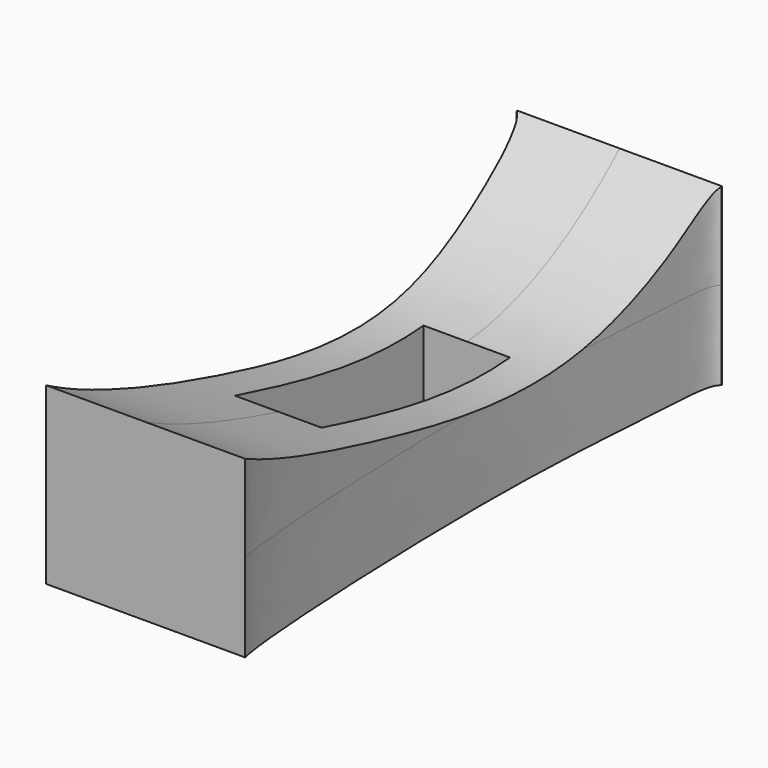
from build123d import *

# Parameters (mm, degrees)
F0_W          = 146.9521149993
F0_H          = 43.64182055
F1_DEPTH      = 25.4
F1_DEPTH_BACK = 25.4
F3_DEPTH      = 25.4
F3_DEPTH_BACK = 25.4
F5_DEPTH      = 25.4
F5_DEPTH_BACK = 25.4
F6_W          = 21.4510653168
F6_H          = 58.435657993
F7_DEPTH      = 19.05
F7_DEPTH_BACK = 19.05


with BuildPart() as f1:
    # F0 (on Right) → F1 (new body, two sides)
    with BuildSketch(Plane.YZ) as f1_sk:
        with Locations((-0.246565789, 0)):
            Rectangle(F0_W, F0_H)
    extrude(amount=F1_DEPTH)
    extrude(f1_sk.sketch, amount=-F1_DEPTH_BACK)

    # F2 (on Right) → F3 (cut, two sides)
    with BuildSketch(Plane.YZ) as f3_sk:
        with BuildLine():
            add(Edge.make_bspline(
                [(-74.215747416, 21.820910275), (-61.894191177, 15.2377273736), (-22.1100792082, 3.2237569893), (34.6803899351, -7.3993956262), (73.077793108, 19.258801403), (86.6447215634, 36.9009252345), (70.9789009852, 51.2328822131), (26.6385008912, 48.7207377435), (-29.9953971871, 46.1020839952), (-78.6939597066, 54.7034933177), (-90.3862941587, 33.3553993527), (-81.2800484867, 25.5952375691), (-74.215747416, 21.820910275)],
                knots=[0, 0, 0, 0, 0.1246967294, 0.2539314303, 0.3666593058, 0.4377567292, 0.5026378116, 0.6137286746, 0.7470863969, 0.8612680076, 0.9285077938, 1, 1, 1, 1], degree=3))
        make_face()
    extrude(amount=-F3_DEPTH, mode=Mode.SUBTRACT)
    extrude(f3_sk.sketch, amount=F3_DEPTH_BACK, mode=Mode.SUBTRACT)

    # F4 (on Top) → F5 (cut, two sides)
    with BuildSketch(Plane.XY) as f5_sk:
        with BuildLine():
            add(Edge.make_bspline(
                [(-25.3960862756, 73.1062069535), (-23.5095576316, 71.7872554287), (-22.9475698865, 55.4716414881), (-18.5812036149, 11.6112478816), (-22.9708888623, -73.9591128277), (-26.5923572766, -75.9397077273), (-60.6422517347, -78.6522113233), (-62.392178381, -20.1633902273), (-58.61908902, 44.1212419737), (-45.1288634077, 66.2260932479), (-40.7946206151, 73.8029194333), (-30.9643742623, 72.0170355029), (-26.6015743948, 73.949014402), (-25.3960862756, 73.1062069535)],
                knots=[0, 0, 0, 0, 0.0665799983, 0.1995830948, 0.3636325623, 0.3950919221, 0.4839306655, 0.6140422336, 0.7653117901, 0.854025013, 0.9022699385, 0.9574555111, 1, 1, 1, 1], degree=3))
        make_face()
        with BuildLine():
            add(Edge.make_bspline(
                [(25.3960862756, 73.1062069535), (23.5095576316, 71.7872554287), (22.9475698865, 55.4716414881), (18.5812036149, 11.6112478816), (22.9708888623, -73.9591128277), (26.5923572766, -75.9397077273), (60.6422517347, -78.6522113233), (62.392178381, -20.1633902273), (58.61908902, 44.1212419737), (45.1288634077, 66.2260932479), (40.7946206151, 73.8029194333), (30.9643742623, 72.0170355029), (26.6015743948, 73.949014402), (25.3960862756, 73.1062069535)],
                knots=[0, 0, 0, 0, 0.0665799983, 0.1995830948, 0.3636325623, 0.3950919221, 0.4839306655, 0.6140422336, 0.7653117901, 0.854025013, 0.9022699385, 0.9574555111, 1, 1, 1, 1], degree=3))
        make_face()
    extrude(amount=-F5_DEPTH, mode=Mode.SUBTRACT)
    extrude(f5_sk.sketch, amount=F5_DEPTH_BACK, mode=Mode.SUBTRACT)

    # F6 (on Top) → F7 (cut, two sides)
    with BuildSketch(Plane.XY) as f7_sk:
        with Locations((-0.1232819632, -3.2053319737)):
            Rectangle(F6_W, F6_H)
    extrude(amount=-F7_DEPTH, mode=Mode.SUBTRACT)
    extrude(f7_sk.sketch, amount=F7_DEPTH_BACK, mode=Mode.SUBTRACT)


solid = f1.part
